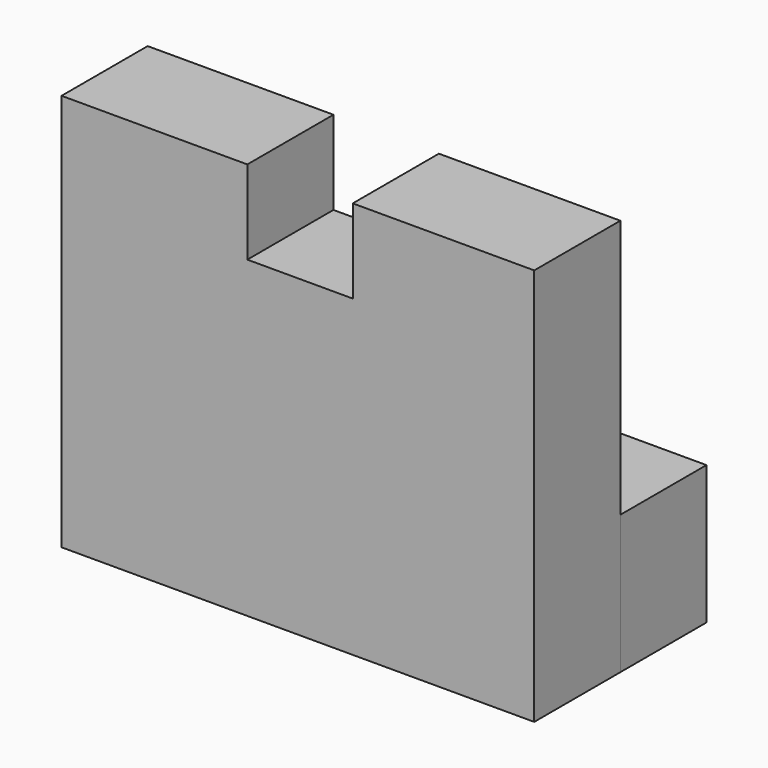
from build123d import *

# Parameters (mm, degrees)
F1_DEPTH = 25.4
F2_W     = 111.537047
F2_H     = 32.703225
F3_DEPTH = 25.4


with BuildPart() as f1:
    # F0 (on Front) → F1 (new body)
    with BuildSketch(Plane.XZ):
        Polygon((-54.905497, 61.093923), (-54.905497, 0), (-54.905497, -32.703225), (-22.688214, -32.703225), (56.63155, -32.703225), (56.63155, -22.711789), (56.63155, 61.093923), (13.811111, 61.093923), (13.811111, 41.314956), (-11.065524, 41.314956), (-11.065524, 61.093923), align=None)
    extrude(amount=F1_DEPTH)

    # F2 (on face) → F3 (join)
    with BuildSketch(Plane(origin=(0, 0, 0), x_dir=(-1, 0, 0), z_dir=(0, 1, 0))):
        with Locations((-0.863027, -16.351612)):
            Rectangle(F2_W, F2_H)
    extrude(amount=F3_DEPTH)


solid = f1.part
